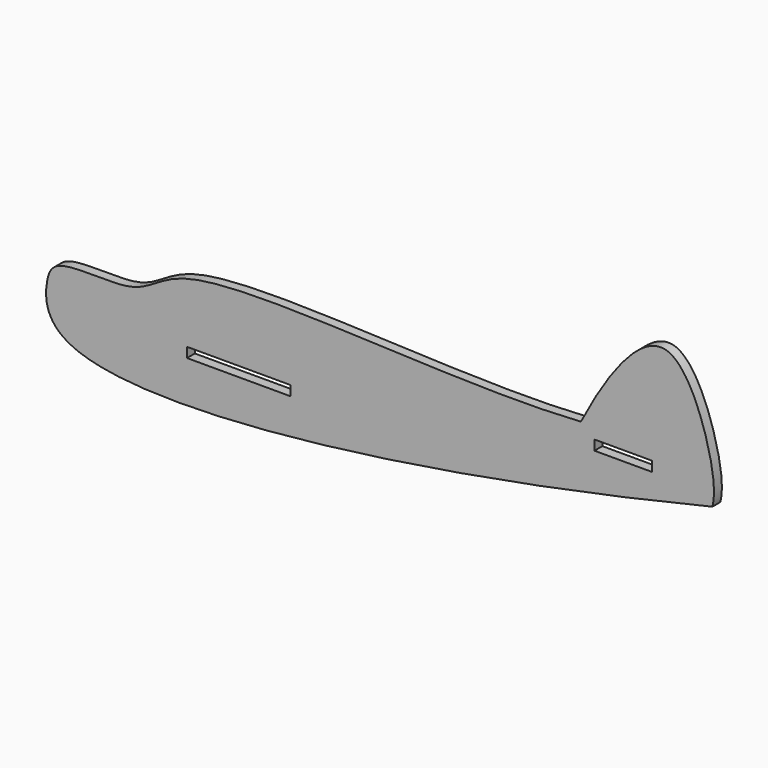
from build123d import *

# Parameters (mm, degrees)
F0_W     = 33.3120238
F0_H     = 3.175
F0_W_2   = 18.542
F1_DEPTH = 3.175


with BuildPart() as f1:
    # F0 (on Front) → F1 (new body)
    with BuildSketch(Plane.XZ):
        with BuildLine():
            add(Edge.make_bspline(
                [(-108.549259603, -3.4148609266), (-108.182279592, -0.3129514374), (-107.3373402217, 7.831968629), (-77.7825654855, 2.592633478), (-65.1573496228, 23.2134765019), (20.8722034308, 12.0644123058), (63.2278099656, 14.9091919884)],
                knots=[0, 0, 0, 0, 0.1229486758, 0.3305064109, 0.5212767918, 1, 1, 1, 1], degree=3))
            add(Edge.make_bspline(
                [(-108.549259603, -3.4148609266), (-108.9023058999, -8.5028058583), (-100.6330244933, -31.3974796903), (9.8771099191, -18.4392771407), (105.4534614086, 4.587367177)],
                knots=[0, 0, 0, 0, 0.2143663155, 1, 1, 1, 1], degree=3))
            add(Edge.make_bspline(
                [(63.2278099656, 14.9091919884), (71.6076268293, 31.239608401), (92.2272859917, 60.5925255068), (106.9795582085, 14.8031922001), (105.9860341662, 6.5740305791), (105.4534614086, 4.587367177)],
                knots=[0, 0, 0, 0, 0.4151661668, 0.7893404456, 1, 1, 1, 1], degree=3))
        make_face()
        with Locations((-46.6603705677, -6.6544542596)):
            Rectangle(F0_W, F0_H, mode=Mode.SUBTRACT)
        with Locations((76.8534777889, 9.7095776774)):
            Rectangle(F0_W_2, F0_H, mode=Mode.SUBTRACT)
    extrude(amount=F1_DEPTH)


solid = f1.part
